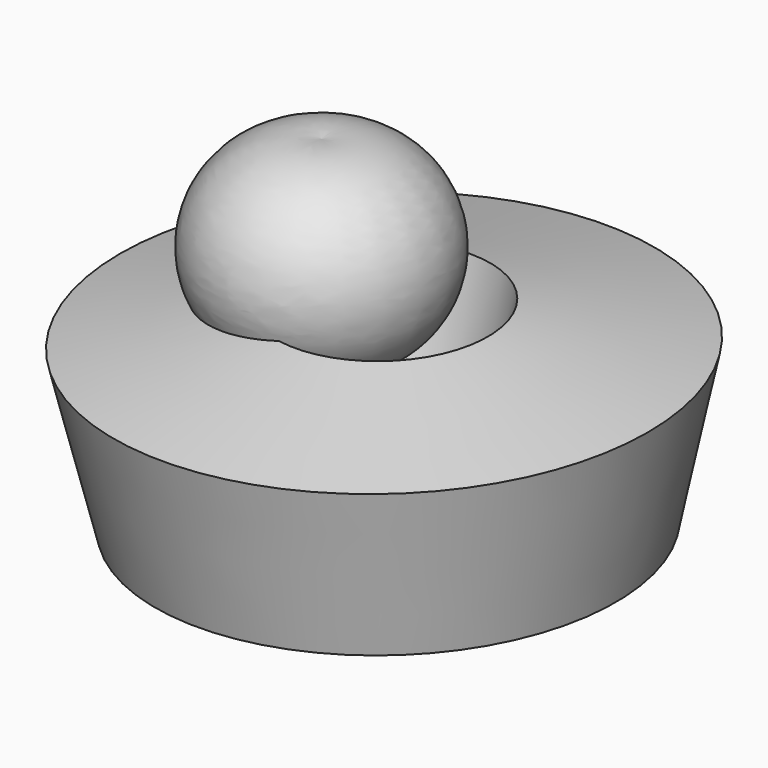
from build123d import *


with BuildPart() as f2:
    # F0 (on Front) → F2 (revolve)
    with BuildSketch(Plane.XZ):
        Polygon((-6.268064, 18.435486), (-29.128065, 12.536129), (-23.228709, -10.323873), (-0.368707, -4.424516), align=None)
    revolve(axis=Axis((9.58645, 0, -6.544597), (0.02709, 0, -0.999633)))

    # F3 (on Right) → F4 (revolve)
    with BuildSketch(Plane.YZ):
        with BuildLine():
            Line((0, 36.627166), (0, 9.195821))
            ThreePointArc((0, 9.195821), (16.521366, 22.911494), (0, 36.627166))
        make_face()
    revolve(axis=Axis((0, 0, 22.911494), (0, 0, -1)))


solid = f2.part
